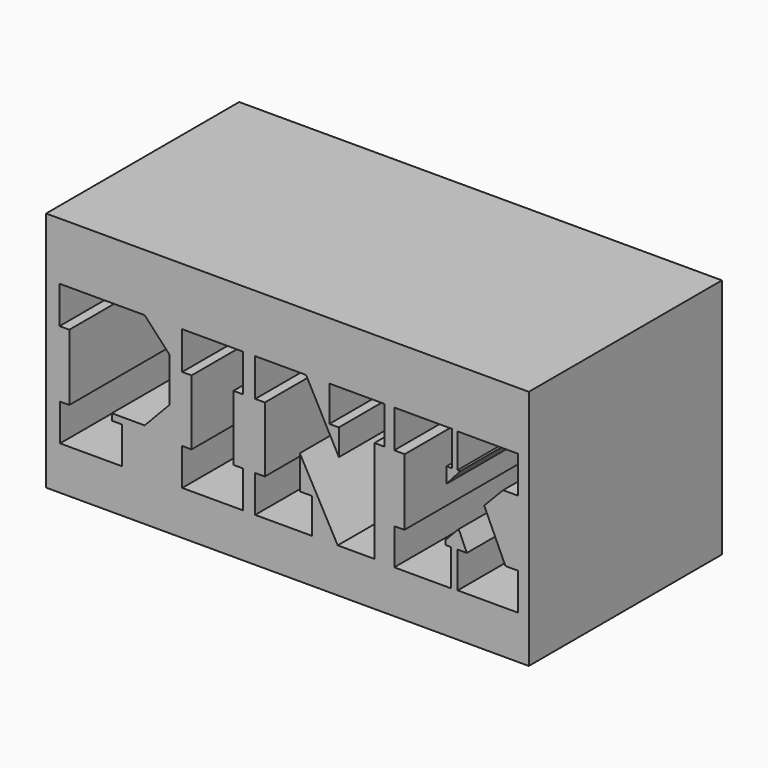
from build123d import *

# Parameters (mm, degrees)
F0_W     = 25.4
F0_H     = 25.4
F1_DEPTH = 25.4
F3_DEPTH = 25.4
F4_W     = 25.4
F4_H     = 12.7
F5_DEPTH = 25.4
F6_W     = 12.7
F6_H     = 12.7
F7_DEPTH = 25.4


with BuildPart() as f1:
    # F0 (on Front) → F1 (new body)
    with BuildSketch(Plane.XZ):
        with Locations((12.7, 12.7)):
            Rectangle(F0_W, F0_H)
    extrude(amount=F1_DEPTH)

    # F2 (on face) → F3 (cut)
    with BuildSketch(Plane.XZ.offset(25.4)):
        Polygon((5.187699, 9.677647), (0.70863, 9.677647), (0.70863, 7.712204), (1.221623, 7.712204), (1.221623, 4.225912), (0.734957, 4.225912), (0.734957, 2.289937), (3.984629, 2.289937), (3.984629, 4.225912), (3.45915, 4.225912), (3.45915, 4.571622), (5.187699, 4.571622), (6.487568, 5.940633), (6.487568, 8.277631), align=None)
        Polygon((1.373146, 8.298191), (1.373146, 9.056263), (4.895022, 9.024677), (5.842611, 8.09288), (5.842611, 6.181907), (4.942401, 5.234317), (2.826117, 5.234317), (2.826117, 3.623415), (3.284119, 3.623415), (3.284119, 2.928515), (1.373146, 2.928515), (1.373146, 3.623415), (1.89432, 3.623415), (1.89432, 8.298191), align=None, mode=Mode.SUBTRACT)
        Polygon((10.355519, 9.670121), (7.154135, 9.670121), (7.164647, 7.688757), (7.654916, 7.688757), (7.654916, 4.259461), (7.164647, 4.259461), (7.164647, 2.317117), (10.355519, 2.317117), (10.355519, 4.259461), (9.8595, 4.259461), (9.8595, 7.691912), (10.355519, 7.691912), align=None)
        Polygon((7.806116, 8.34365), (7.802438, 9.036948), (9.705184, 9.037424), (9.708923, 8.332776), (9.163893, 8.329884), (9.18893, 3.610964), (9.708865, 3.624296), (9.722495, 2.901242), (7.792784, 2.891004), (7.788839, 3.634657), (8.348879, 3.637628), (8.348879, 8.34653), align=None, mode=Mode.SUBTRACT)
        Polygon((13.681499, 9.670121), (11.003493, 9.670121), (11.003493, 7.688757), (11.510781, 7.688757), (11.510781, 4.259461), (11.003493, 4.259461), (11.003493, 2.317117), (13.988231, 2.317117), (13.988231, 4.166804), (13.351173, 4.166804), (13.351173, 5.936412), (15.344931, 2.317117), (17.279701, 2.317117), (17.279701, 7.688757), (17.810585, 7.688757), (17.810585, 9.670121), (14.908427, 9.670121), (14.908427, 7.800398), (15.403918, 7.800398), (15.403918, 6.420104), align=None)
        Polygon((11.66257, 8.332776), (11.658834, 9.036948), (13.255958, 9.006472), (15.985473, 4.235322), (15.985473, 8.338282), (15.528347, 8.332776), (15.520232, 9.006472), (17.214789, 9.026884), (17.218454, 8.336145), (16.583439, 8.332776), (16.611911, 2.966279), (15.742617, 2.961667), (12.90889, 8.117346), (12.932612, 3.646248), (13.373935, 3.648589), (13.377531, 2.970786), (11.682376, 2.961792), (11.679067, 3.58549), (12.16921, 3.588091), (12.144037, 8.332776), align=None, mode=Mode.SUBTRACT)
        Polygon((21.357853, 9.670121), (18.333804, 9.670121), (18.319575, 7.688901), (18.870167, 7.686202), (18.852962, 4.176179), (18.319575, 4.176179), (18.319575, 2.266313), (21.31342, 2.266313), (21.31342, 4.176179), (21.00371, 4.176179), (21.00371, 4.399857), (21.709157, 5.139715), (22.139307, 4.176179), (21.65754, 4.176179), (21.65754, 2.283519), (24.823442, 2.283519), (24.823442, 4.227797), (24.169615, 4.227797), (23.051225, 6.671048), (24.049172, 7.703408), (24.823442, 7.703408), (24.823442, 9.647685), (21.65754, 9.647685), (21.65754, 7.858261), (21.798439, 7.858261), (21.070654, 7.032285), (21.070654, 7.843203), (21.357853, 7.843203), align=None)
        Polygon((19.004352, 8.332776), (19.000616, 9.036948), (20.667763, 9.036053), (20.667763, 8.306677), (20.414714, 8.306677), (20.414714, 5.552904), (22.945207, 8.336446), (22.349797, 8.336446), (22.349797, 9.036053), (24.180682, 9.036053), (24.180682, 8.312229), (23.73184, 8.312229), (22.349797, 6.743724), (23.704356, 3.588185), (24.180682, 3.588185), (24.180682, 2.962871), (22.349797, 2.962871), (22.349797, 3.588185), (22.945207, 3.588185), (21.754388, 6.207855), (20.414714, 4.644904), (20.414714, 3.588185), (20.679095, 3.588185), (20.682522, 2.942261), (19.004326, 2.933357), (19.000867, 3.585446), (19.517002, 3.588185), (19.491829, 8.332776), align=None, mode=Mode.SUBTRACT)
        Polygon((4.895022, 9.024677), (1.373146, 9.056263), (1.373146, 8.298191), (1.89432, 8.298191), (1.89432, 3.623415), (1.373146, 3.623415), (1.373146, 2.928515), (3.284119, 2.928515), (3.284119, 3.623415), (2.826117, 3.623415), (2.826117, 5.234317), (4.942401, 5.234317), (5.842611, 6.181907), (5.842611, 8.09288), align=None)
        Polygon((9.705184, 9.037424), (7.802438, 9.036948), (7.806116, 8.34365), (8.348879, 8.34653), (8.348879, 3.637628), (7.788839, 3.634657), (7.792784, 2.891004), (9.722495, 2.901242), (9.708865, 3.624296), (9.18893, 3.610964), (9.163893, 8.329884), (9.708923, 8.332776), align=None)
        Polygon((13.255958, 9.006472), (11.658834, 9.036948), (11.66257, 8.332776), (12.144037, 8.332776), (12.16921, 3.588091), (11.679067, 3.58549), (11.682376, 2.961792), (13.377531, 2.970786), (13.373935, 3.648589), (12.932612, 3.646248), (12.90889, 8.117346), (15.742617, 2.961667), (16.611911, 2.966279), (16.583439, 8.332776), (17.218454, 8.336145), (17.214789, 9.026884), (15.520232, 9.006472), (15.528347, 8.332776), (15.985473, 8.338282), (15.985473, 4.235322), align=None)
        Polygon((20.667763, 9.036053), (19.000616, 9.036948), (19.004352, 8.332776), (19.491829, 8.332776), (19.517002, 3.588185), (19.000867, 3.585446), (19.004326, 2.933357), (20.682522, 2.942261), (20.679095, 3.588185), (20.414714, 3.588185), (20.414714, 4.644904), (21.754388, 6.207855), (22.945207, 3.588185), (22.349797, 3.588185), (22.349797, 2.962871), (24.180682, 2.962871), (24.180682, 3.588185), (23.704356, 3.588185), (22.349797, 6.743724), (23.73184, 8.312229), (24.180682, 8.312229), (24.180682, 9.036053), (22.349797, 9.036053), (22.349797, 8.336446), (22.945207, 8.336446), (20.414714, 5.552904), (20.414714, 8.306677), (20.667763, 8.306677), align=None)
    extrude(amount=-F3_DEPTH, mode=Mode.SUBTRACT)

    # F4 (on face) → F5 (cut)
    with BuildSketch(Plane.XZ.offset(25.4)):
        with Locations((12.7, 19.05)):
            Rectangle(F4_W, F4_H)
    extrude(amount=-F5_DEPTH, mode=Mode.SUBTRACT)

    # F6 (on face) → F7 (cut)
    with BuildSketch(Plane(origin=(0, 0, 0), x_dir=(0, -1, 0), z_dir=(-1, 0, 0))):
        with Locations((19.05, 6.35)):
            Rectangle(F6_W, F6_H)
    extrude(amount=-F7_DEPTH, mode=Mode.SUBTRACT)


solid = f1.part
